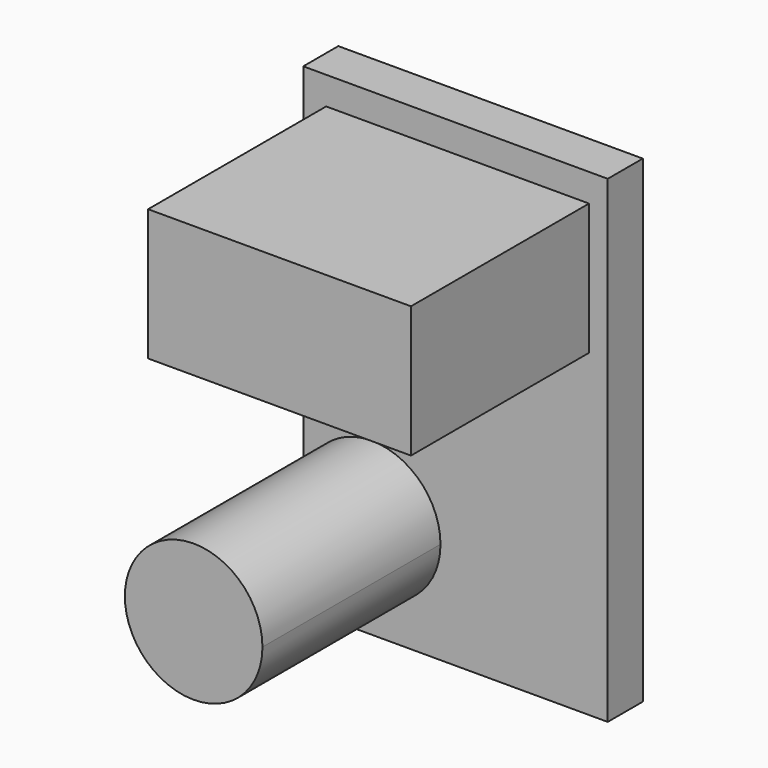
from build123d import *

# Parameters (mm, degrees)
F0_W     = 69.50178
F0_H     = 109.138066
F1_DEPTH = 10
F2_W     = 60
F2_H     = 30
F4_DEPTH = 50.8
F5_DEPTH = 50.8


with BuildPart() as f1:
    # F0 (on Front) → F1 (new body)
    with BuildSketch(Plane.XZ):
        with Locations((-34.75089, 19.172902)):
            Rectangle(F0_W, F0_H)
    extrude(amount=F1_DEPTH)

    # F2 (on face) → F4 (join)
    with BuildSketch(Plane.XZ.offset(10)):
        with Locations((-34.276575, 52.379627)):
            Rectangle(F2_W, F2_H)
    extrude(amount=F4_DEPTH)

    # F3 (on face) → F5 (join)
    with BuildSketch(Plane.XZ.offset(10)):
        with BuildLine():
            ThreePointArc((-69.50178, -13.655613), (-53.107139, -27.798143), (-38.17735, -12.117047))
            ThreePointArc((-38.17735, -12.117047), (-53.107139, 3.564049), (-69.50178, -10.578481))
            Line((-69.50178, -10.578481), (-69.50178, -13.655613))
        make_face()
    extrude(amount=F5_DEPTH)


solid = f1.part
